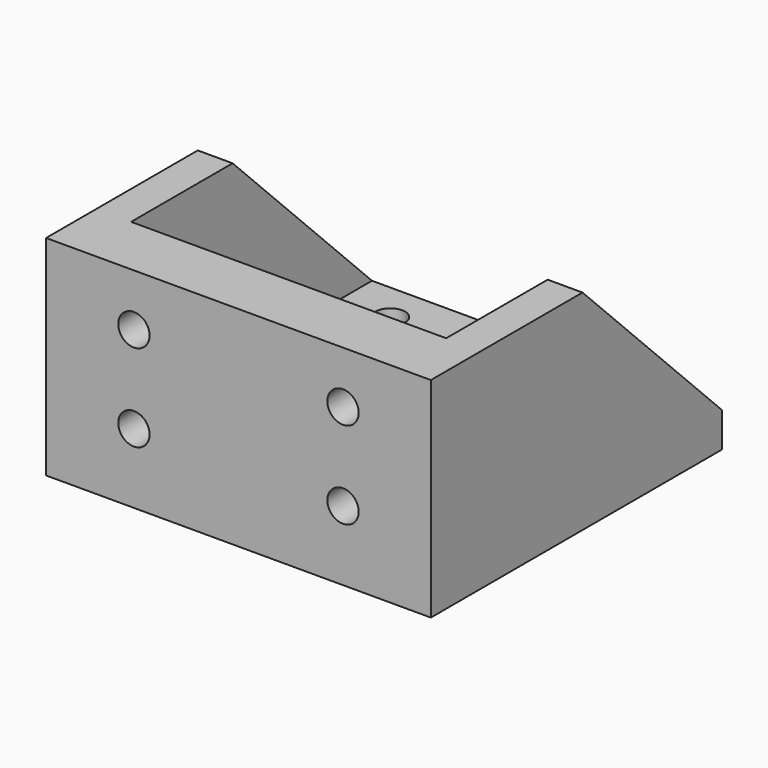
from build123d import *

# Parameters (mm, degrees)
F0_R     = 2.125
F0_R_2   = 13
F1_DEPTH = 5
F3_DEPTH = 25
F4_W     = 55.2
F4_H     = 30
F4_R     = 2.25
F5_DEPTH = 5
F6_W     = 45.2
F6_H     = 25
F7_DEPTH = 4
F8_SIZE  = 25


with BuildPart() as f1:
    # F0 (on Top) → F1 (new body)
    with BuildSketch(Plane.XY):
        Polygon((27.6, -21.1), (27.6, 21.1), (-27.6, 21.1), (-27.6, -21.1), (-27.6, -31.1), (0, -31.1), (27.6, -31.1), align=None)
        with Locations((-15.5, -15.5)):
            Circle(F0_R, mode=Mode.SUBTRACT)
        with Locations((15.5, -15.5)):
            Circle(F0_R, mode=Mode.SUBTRACT)
        with Locations((-15.5, 15.5)):
            Circle(F0_R, mode=Mode.SUBTRACT)
        Circle(F0_R_2, mode=Mode.SUBTRACT)
        with Locations((15.5, 15.5)):
            Circle(F0_R, mode=Mode.SUBTRACT)
    extrude(amount=F1_DEPTH)

    # F2 (on face) → F3 (join)
    with BuildSketch(Plane.XY.offset(5)):
        Polygon((-22.6, -21.1), (-22.6, 21.1), (-27.6, 21.1), (-27.6, -21.1), (-27.6, -31.1), (-22.6, -31.1), align=None)
        Polygon((27.6, 21.1), (22.6, 21.1), (22.6, -21.1), (22.6, -31.1), (27.6, -31.1), (27.6, -21.1), align=None)
    extrude(amount=F3_DEPTH)

    # F4 (on face) → F5 (join)
    with BuildSketch(Plane.XZ.offset(31.1)):
        with Locations((0, 15)):
            Rectangle(F4_W, F4_H)
        with Locations((-15, 10)):
            Circle(F4_R, mode=Mode.SUBTRACT)
        with Locations((15, 10)):
            Circle(F4_R, mode=Mode.SUBTRACT)
        with Locations((-15, 22.5)):
            Circle(F4_R, mode=Mode.SUBTRACT)
        with Locations((15, 22.5)):
            Circle(F4_R, mode=Mode.SUBTRACT)
    extrude(amount=-F5_DEPTH)

    # F6 (on face) → F7 (join)
    with BuildSketch(Plane(origin=(0, -26.1, 0), x_dir=(-1, 0, 0), z_dir=(0, 1, 0))):
        with Locations((0, 17.5)):
            Rectangle(F6_W, F6_H)
        Polygon((-15, 14.87861), (-10.775, 12.439305), (-10.775, 7.560695), (-15, 5.12139), (-19.225, 7.560695), (-19.225, 12.439305), align=None, mode=Mode.SUBTRACT)
        Polygon((10.775, 7.560695), (10.775, 12.439305), (15, 14.87861), (19.225, 12.439305), (19.225, 7.560695), (15, 5.12139), align=None, mode=Mode.SUBTRACT)
        Polygon((-15, 27.37861), (-10.775, 24.939305), (-10.775, 20.060695), (-15, 17.62139), (-19.225, 20.060695), (-19.225, 24.939305), align=None, mode=Mode.SUBTRACT)
        Polygon((10.775, 24.939305), (15, 27.37861), (19.225, 24.939305), (19.225, 20.060695), (15, 17.62139), (10.775, 20.060695), align=None, mode=Mode.SUBTRACT)
    extrude(amount=F7_DEPTH)

    # F8
    f8_edges = [f1.edges().sort_by_distance(p)[0] for p in [
        (-25.1, 21.1, 30),
        (25.1, 21.1, 30),
    ]]
    chamfer(f8_edges, length=F8_SIZE)


solid = f1.part
